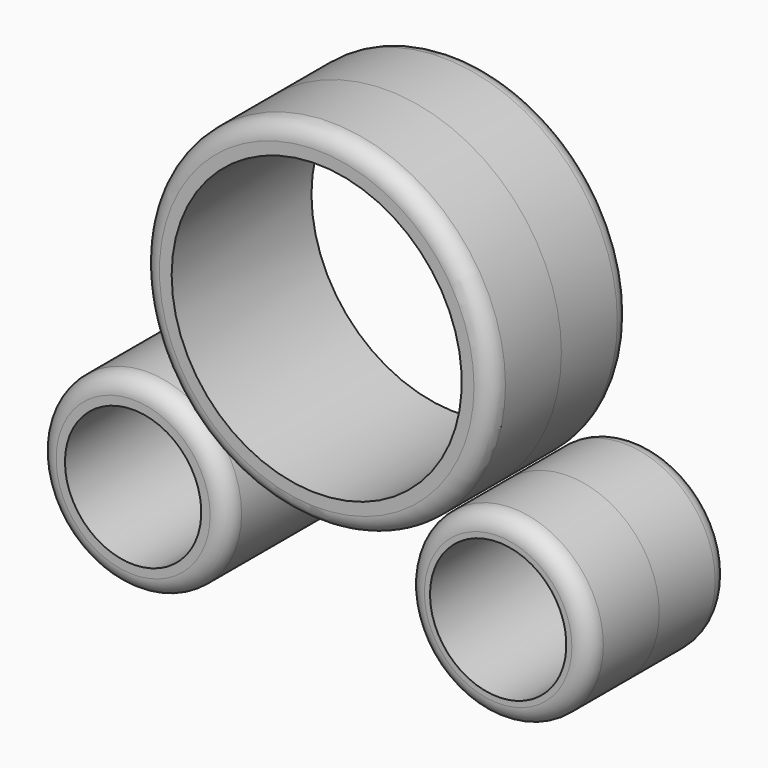
from build123d import *

# Parameters (mm, degrees)
F0_R      = 50
F1_DEPTH  = 25
F1_FACE_R = 50
F2_DEPTH  = 25
F3_R      = 5
F4_R      = 26.0915
F5_DEPTH  = 25
F5_FACE_R = 26.0915
F6_DEPTH  = 25
F7_R      = 27.025882
F8_DEPTH  = 25
F8_FACE_R = 27.025882
F9_DEPTH  = 25
F10_R     = 5
F10_2_R   = 5
F12_D     = 83
F12_DEPTH = 125
F14_D     = 83
F14_DEPTH = 125
F16_D     = 39
F16_DEPTH = 50
F18_D     = 39
F18_DEPTH = 50


with BuildPart() as f1:
    # F0 (on Front) → F1 (new body)
    with BuildSketch(Plane.XZ):
        Circle(F0_R)
    extrude(amount=-F1_DEPTH)

    # F1_face (on face) → F2 (join)
    with BuildSketch(Plane.XZ):
        Circle(F1_FACE_R)
    extrude(amount=F2_DEPTH)

    # F3
    f3_edges = [f1.edges().sort_by_distance(p)[0] for p in [
        (-50, 25, 0),
        (-50, -25, 0),
    ]]
    fillet(f3_edges, radius=F3_R)

    # F12
    with Locations(Plane(origin=(0, 0, 0), x_dir=(1, 0, 0), z_dir=(0, 1, 0))):
        with Locations((0, 0)):
            Hole(F12_D / 2, depth=F12_DEPTH)

    # F14
    with Locations(Plane.XZ):
        with Locations((0, 0)):
            Hole(F14_D / 2, depth=F14_DEPTH)


with BuildPart() as f5:
    # F4 (on Front) → F5 (new body)
    with BuildSketch(Plane.XZ):
        with Locations((51.913615, -56.398716)):
            Circle(F4_R)
    extrude(amount=-F5_DEPTH)

    # F5_face (on face) → F6 (join)
    with BuildSketch(Plane(origin=(51.913615, 0, -56.398716), x_dir=(1, 0, 0), z_dir=(0, -1, 0))):
        Circle(F5_FACE_R)
    extrude(amount=F6_DEPTH)

    # F10
    f10_edges = [f5.edges().sort_by_distance(p)[0] for p in [
        (25.822115, -25, -56.398716),
        (25.822115, 25, -56.398716),
    ]]
    fillet(f10_edges, radius=F10_R)

    # F18
    with Locations(Plane.XZ.offset(25)):
        with Locations((51.913615, -56.398716)):
            Hole(F18_D / 2, depth=F18_DEPTH)


with BuildPart() as f8:
    # F7 (on Front) → F8 (new body)
    with BuildSketch(Plane.XZ):
        with Locations((-52.523833, -56.980401)):
            Circle(F7_R)
    extrude(amount=F8_DEPTH)

    # F8_face (on face) → F9 (join)
    with BuildSketch(Plane(origin=(-52.523833, 0, -56.980401), x_dir=(1, 0, 0), z_dir=(0, 1, 0))):
        Circle(F8_FACE_R)
    extrude(amount=F9_DEPTH)

    # F10#2
    f10_2_edges = [f8.edges().sort_by_distance(p)[0] for p in [
        (-79.549715, -25, -56.980401),
        (-79.549715, 25, -56.980401),
    ]]
    fillet(f10_2_edges, radius=F10_2_R)

    # F16
    with Locations(Plane.XZ.offset(25)):
        with Locations((-52.523833, -56.980401)):
            Hole(F16_D / 2, depth=F16_DEPTH)


solid = Compound([f1.part, f5.part, f8.part])
